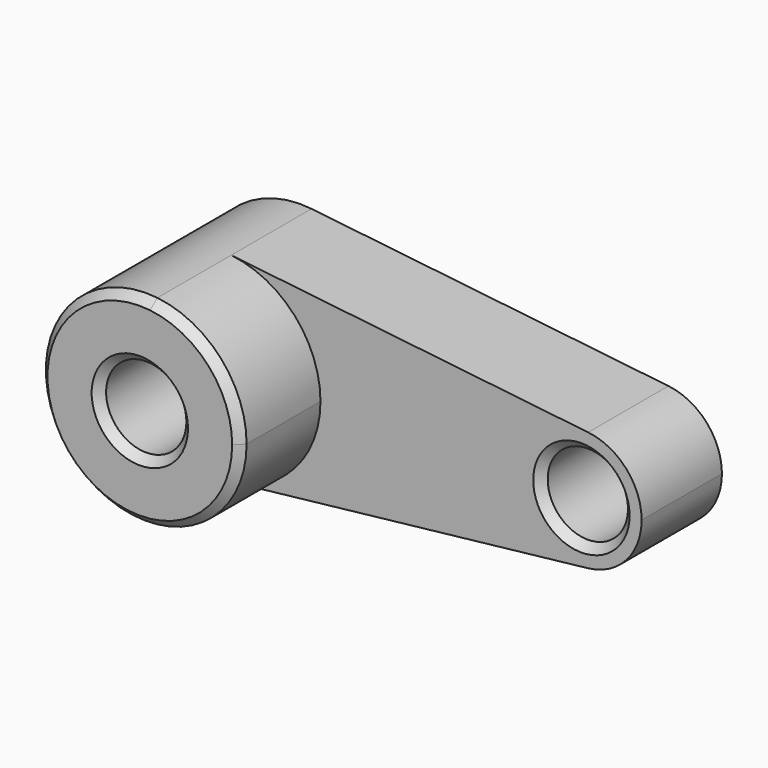
from build123d import *

# Parameters (mm, degrees)
F0_R     = 10
F1_DEPTH = 25
F2_DEPTH = 50
F3_SIZE  = 2


with BuildPart() as f1:
    # F0 (on Front) → F1 (new body)
    with BuildSketch(Plane.XZ):
        with BuildLine():
            ThreePointArc((2.777778, -24.8452), (18.6339, -16.666667), (25, 0))
            ThreePointArc((25, 0), (18.6339, 16.666667), (2.777778, 24.8452))
            ThreePointArc((2.777778, 24.8452), (-25, 0), (2.777778, -24.8452))
        make_face()
        Circle(F0_R, mode=Mode.SUBTRACT)
        with BuildLine():
            ThreePointArc((2.777778, 24.8452), (18.6339, 16.666667), (25, 0))
            ThreePointArc((25, 0), (18.6339, -16.666667), (2.777778, -24.8452))
            Line((2.777778, -24.8452), (91.666667, -14.90712))
            ThreePointArc((91.666667, -14.90712), (75, 0), (91.666667, 14.90712))
            Line((91.666667, 14.90712), (2.777778, 24.8452))
        make_face()
        with BuildLine():
            ThreePointArc((105, 0), (101.18034, 10), (91.666667, 14.90712))
            ThreePointArc((91.666667, 14.90712), (75, 0), (91.666667, -14.90712))
            ThreePointArc((91.666667, -14.90712), (101.18034, -10), (105, 0))
        make_face()
        with Locations((90, 0)):
            Circle(F0_R, mode=Mode.SUBTRACT)
    extrude(amount=F1_DEPTH)

    # F0 (on Front) → F2 (join)
    with BuildSketch(Plane.XZ):
        with BuildLine():
            ThreePointArc((2.777778, -24.8452), (18.6339, -16.666667), (25, 0))
            ThreePointArc((25, 0), (18.6339, 16.666667), (2.777778, 24.8452))
            ThreePointArc((2.777778, 24.8452), (-25, 0), (2.777778, -24.8452))
        make_face()
        Circle(F0_R, mode=Mode.SUBTRACT)
    extrude(amount=F2_DEPTH)

    # F3
    f3_edges = [f1.edges().sort_by_distance(p)[0] for p in [
        (-10, -50, 0),
        (-10, 0, 0),
        (-2.777778, -50, 24.8452),
        (80, 0, 0),
        (80, -25, 0),
    ]]
    chamfer(f3_edges, length=F3_SIZE)


solid = f1.part
